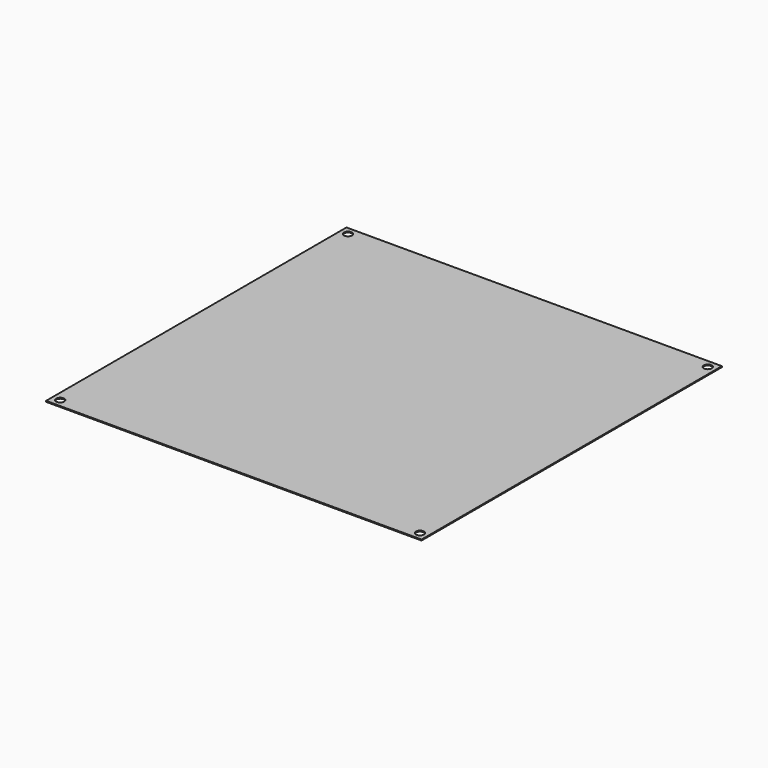
from build123d import *

# Parameters (mm, degrees)
SKETCH_W  = 609.6
SKETCH_H  = 609.6
SKETCH_R  = 6.6
PAD_DEPTH = 1.519


with BuildPart() as part:
    # Sketch → Pad (new body)
    with BuildSketch(Plane.XY):
        Rectangle(SKETCH_W, SKETCH_H)
        with Locations((292.1, 292.1)):
            Circle(SKETCH_R, mode=Mode.SUBTRACT)
        with Locations((-292.1, 292.1)):
            Circle(SKETCH_R, mode=Mode.SUBTRACT)
        with Locations((-292.1, -292.1)):
            Circle(SKETCH_R, mode=Mode.SUBTRACT)
        with Locations((292.1, -292.1)):
            Circle(SKETCH_R, mode=Mode.SUBTRACT)
    extrude(amount=PAD_DEPTH)


solid = part.part
